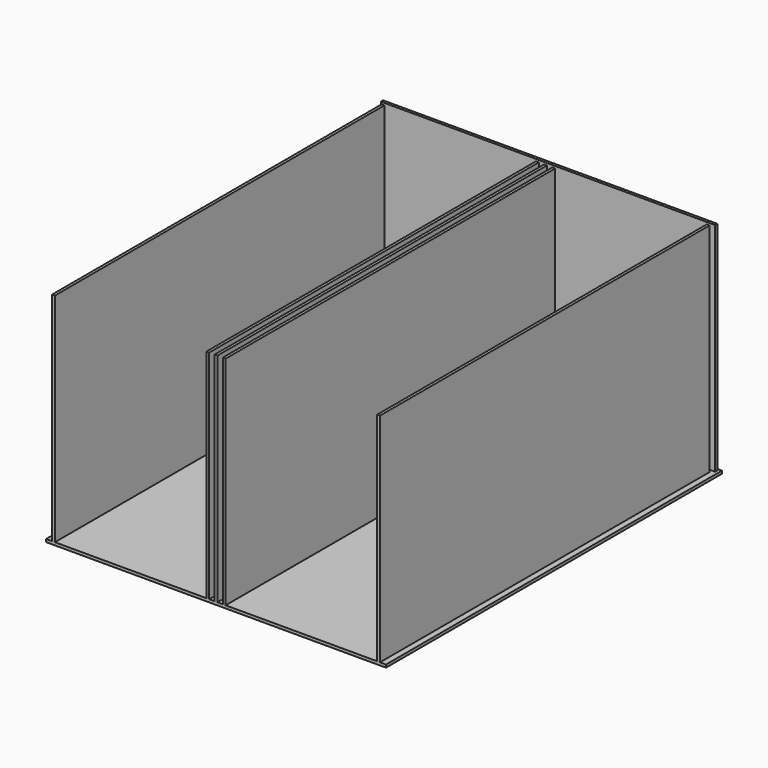
from build123d import *

# Parameters (mm, degrees)
F0_W     = 7
F0_H     = 1030
F0_W_2   = 835.895091
F0_H_2   = 7
F1_DEPTH = 550
F2_DEPTH = 7


with BuildPart() as f1:
    # F0 (on Top) → F1 (new body)
    with BuildSketch(Plane.XY):
        with Locations((406.5, -1185)):
            Rectangle(F0_W, F0_H)
        with Locations((20.5, -1185)):
            Rectangle(F0_W, F0_H)
        with Locations((0, -1185)):
            Rectangle(F0_W, F0_H)
        with Locations((-20.5, -1185)):
            Rectangle(F0_W, F0_H)
        with Locations((-406.5, -1185)):
            Rectangle(F0_W, F0_H)
        with Locations((-0.531063, -658.5)):
            Rectangle(F0_W_2, F0_H_2)
    extrude(amount=F1_DEPTH)


with BuildPart() as f2:
    # F0 (on Top) → F2 (new body)
    with BuildSketch(Plane.XY):
        Polygon((410, -1700), (425, -1700), (425, -1200), (425, -650), (-425, -650), (-425, -1200), (-425, -1700), (-410, -1700), (-410, -670), (-403, -670), (-403, -1700), (-24, -1700), (-24, -670), (-17, -670), (-17, -1700), (-3.5, -1700), (-3.5, -670), (3.5, -670), (3.5, -1700), (17, -1700), (17, -670), (24, -670), (24, -1700), (403, -1700), (403, -670), (410, -670), align=None)
        with Locations((-0.531063, -658.5)):
            Rectangle(F0_W_2, F0_H_2, mode=Mode.SUBTRACT)
        with Locations((406.5, -1185)):
            Rectangle(F0_W, F0_H)
        with Locations((20.5, -1185)):
            Rectangle(F0_W, F0_H)
        with Locations((0, -1185)):
            Rectangle(F0_W, F0_H)
        with Locations((-406.5, -1185)):
            Rectangle(F0_W, F0_H)
        with Locations((-20.5, -1185)):
            Rectangle(F0_W, F0_H)
    extrude(amount=F2_DEPTH)


solid = Compound([f1.part, f2.part])
